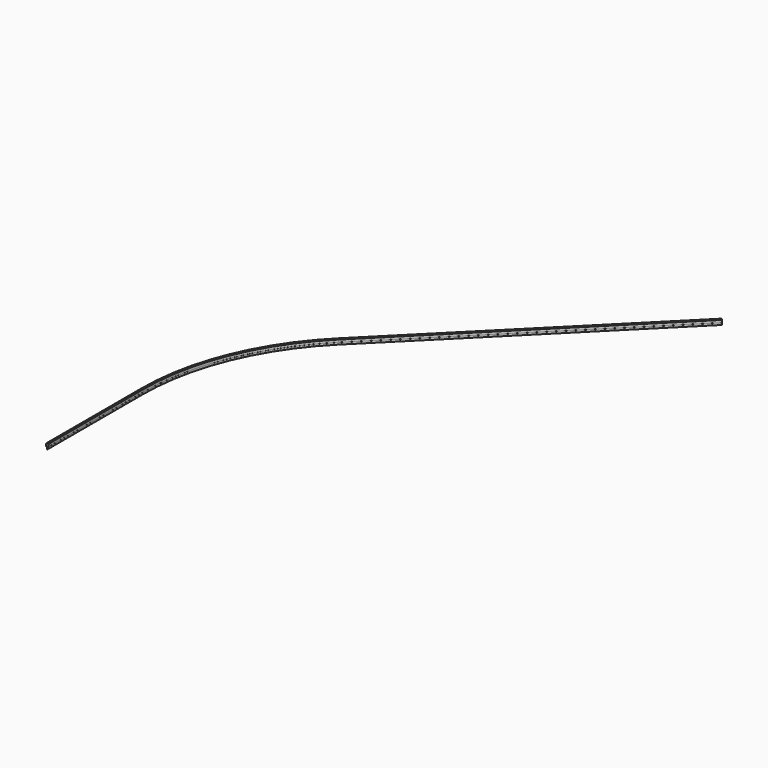
from build123d import *

# Parameters (mm, degrees)
F1_W = 5
F1_H = 30


with BuildPart() as f2:
    # F2: sweep along a path in F0
    with BuildLine(Plane.XY) as f2_path:
        Line((0, 0), (0, 850))
        ThreePointArc((0, 850), (123.8099403704, 1472.4346027418), (476.3908204001, 2000.1091795999))
        Line((476.3908204001, 2000.1091795999), (1996.6703999512, 3520.388759151))
    # F1 (on Front) → F2 (sweep)
    with BuildSketch(Plane.XZ):
        with Locations((-2.5, 0)):
            Rectangle(F1_W, F1_H)
    sweep(path=f2_path.line)


with BuildPart() as f4:
    # F4: sweep along a path in F4_path
    with BuildLine(Plane(origin=(0, 0, 15), x_dir=(-1, 0, 0), z_dir=(0, 0, 1))) as f4_path:
        Line((0, 0), (0, -850))
        ThreePointArc((0, -850), (-123.8099403704, -1472.4346027418), (-476.3908204001, -2000.1091795999))
        Line((-476.3908204001, -2000.1091795999), (-1996.6703999513, -3520.3887591509))
    # F3 (on face) → F4 (sweep)
    with BuildSketch(Plane.XZ):
        with BuildLine():
            Line((-10.35, 18.6), (-10.35, 2.8))
            ThreePointArc((-10.35, 2.8), (-9.7642135624, 1.3857864376), (-8.35, 0.8))
            Line((-8.35, 0.8), (-5.05, 0.8))
            Line((-5.05, 0.8), (-5.05, 15))
            Line((-5.05, 15), (0.05, 15))
            Line((0.05, 15), (0.05, 0.8))
            Line((0.05, 0.8), (3.35, 0.8))
            ThreePointArc((3.35, 0.8), (4.7642135624, 1.3857864376), (5.35, 2.8))
            Line((5.35, 2.8), (5.35, 18.6))
            ThreePointArc((5.35, 18.6), (4.7642135624, 20.0142135624), (3.35, 20.6))
            Line((3.35, 20.6), (-8.35, 20.6))
            ThreePointArc((-8.35, 20.6), (-9.7642135624, 20.0142135624), (-10.35, 18.6))
        make_face()
    sweep(path=f4_path.line)


solid = Compound([f2.part, f4.part])
